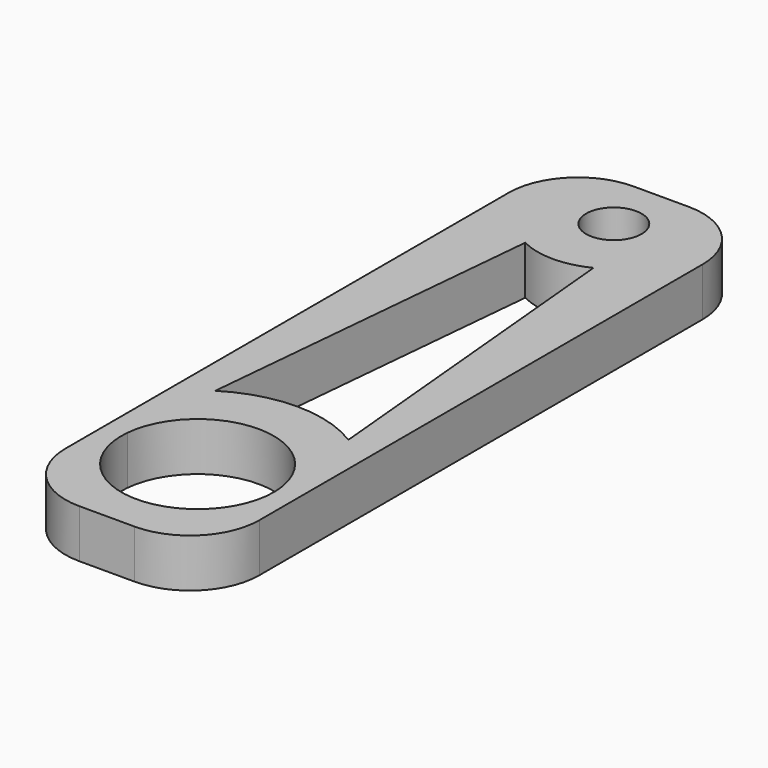
from build123d import *

# Parameters (mm, degrees)
F1_DEPTH = 7
F2_R     = 10


with BuildPart() as f1:
    # F0 (on Top) → F1 (new body)
    with BuildSketch(Plane.XY):
        with BuildLine():
            Line((-6.9555711777, 50), (-14, 50))
            Line((-14, 50), (-14, -22.3341193051))
            ThreePointArc((-14, -22.3341193051), (-11.9703533794, -20.2049620392), (-9.6210253167, -18.4348112769))
            Line((-9.6210253167, -18.4348112769), (-4.9228971131, 31.6413368315))
            ThreePointArc((-4.9228971131, 31.6413368315), (-10.9331894051, 40.2677369064), (-6.9555711777, 50))
        make_face()
        with BuildLine():
            Line((6.9555711777, 50), (-6.9555711777, 50))
            ThreePointArc((-6.9555711777, 50), (-10.9331894051, 40.2677369064), (-4.9228971131, 31.6413368315))
            ThreePointArc((-4.9228971131, 31.6413368315), (0.0046267396, 30.4782623246), (4.9311704412, 31.6454815778))
            ThreePointArc((4.9311704412, 31.6454815778), (9.3606323198, 35.7008430204), (11, 41.4782613516))
            ThreePointArc((11, 41.4782613516), (9.9375873067, 46.1946538843), (6.9555711777, 50))
        make_face()
        with BuildLine():
            ThreePointArc((4, 41.4782613516), (0, 37.4782613516), (-4, 41.4782613516))
            ThreePointArc((-4, 41.4782613516), (0, 45.4782613516), (4, 41.4782613516))
        make_face(mode=Mode.SUBTRACT)
        with BuildLine():
            Line((14, 50), (6.9555711777, 50))
            ThreePointArc((6.9555711777, 50), (9.9375873067, 46.1946538843), (11, 41.4782613516))
            ThreePointArc((11, 41.4782613516), (9.3606323198, 35.7008430204), (4.9311704412, 31.6454815778))
            Line((4.9311704412, 31.6454815778), (9.5838112886, -18.411339981))
            ThreePointArc((9.5838112886, -18.411339981), (11.95391518, -20.1903424569), (14, -22.3341193051))
            Line((14, -22.3341193051), (14, 50))
        make_face()
        with BuildLine():
            ThreePointArc((-9.6210253167, -18.4348112769), (-11.9703533794, -20.2049620392), (-14, -22.3341193051))
            Line((-14, -22.3341193051), (-14, -44.9615363031))
            ThreePointArc((-14, -44.9615363031), (-11.0527929773, -47.8547193501), (-7.5237267677, -50))
            Line((-7.5237267677, -50), (7.5237267677, -50))
            ThreePointArc((7.5237267677, -50), (11.0527929773, -47.8547193501), (14, -44.9615363031))
            Line((14, -44.9615363031), (14, -22.3341193051))
            ThreePointArc((14, -22.3341193051), (11.95391518, -20.1903424569), (9.5838112886, -18.411339981))
            Line((9.5838112886, -18.411339981), (10.8115659574, -31.6205040636))
            ThreePointArc((10.8115659574, -31.6205040636), (10.9527901818, -32.6297967465), (11, -33.6478278041))
            ThreePointArc((11, -33.6478278041), (-0.5143145885, -44.6357976122), (-10.9519055462, -32.6203235914))
            Line((-10.9519055462, -32.6203235914), (-9.6210253167, -18.4348112769))
        make_face()
        with BuildLine():
            ThreePointArc((9.5838112886, -18.411339981), (-0.0219987819, -15.647841247), (-9.6210253167, -18.4348112769))
            Line((-9.6210253167, -18.4348112769), (-10.9519055462, -32.6203235914))
            ThreePointArc((-10.9519055462, -32.6203235914), (-0.5048104318, -22.6594172535), (10.8115659574, -31.6205040636))
            Line((10.8115659574, -31.6205040636), (9.5838112886, -18.411339981))
        make_face()
        with BuildLine():
            ThreePointArc((-7.5237267677, -50), (-11.0527929773, -47.8547193501), (-14, -44.9615363031))
            Line((-14, -44.9615363031), (-14, -50))
            Line((-14, -50), (-7.5237267677, -50))
        make_face()
        with BuildLine():
            ThreePointArc((14, -44.9615363031), (11.0527929773, -47.8547193501), (7.5237267677, -50))
            Line((7.5237267677, -50), (14, -50))
            Line((14, -50), (14, -44.9615363031))
        make_face()
    extrude(amount=F1_DEPTH)

    # F2
    f2_edges = [f1.edges().sort_by_distance(p)[0] for p in [
        (14, 50, 3.5),
        (-14, 50, 3.5),
        (-14, -50, 3.5),
        (14, -50, 3.5),
    ]]
    fillet(f2_edges, radius=F2_R)


solid = f1.part
